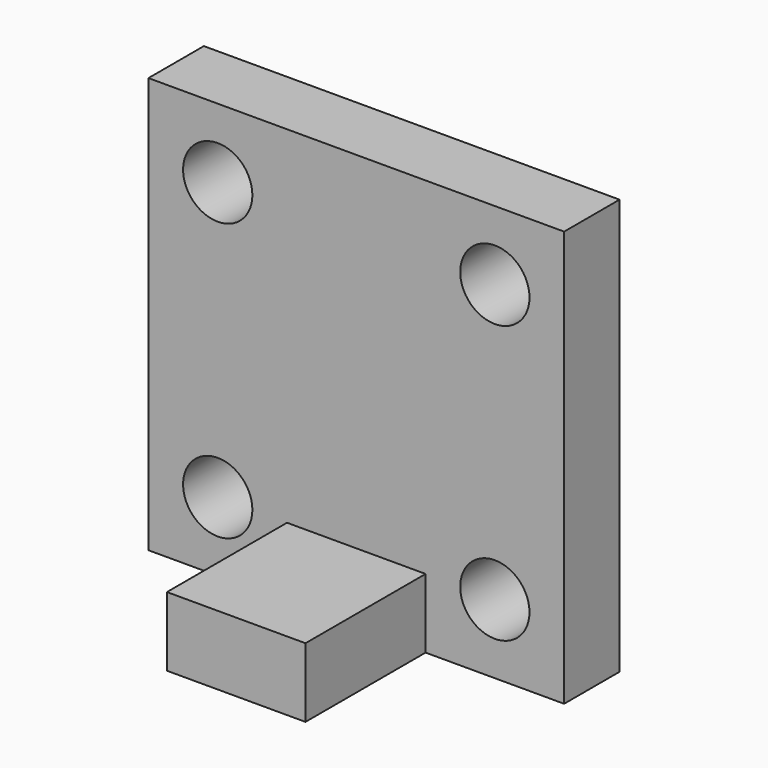
from build123d import *

# Parameters (mm, degrees)
F0_W     = 18
F0_H     = 18
F0_R     = 1.5
F1_DEPTH = 3
F2_W     = 6
F2_H     = 3
F3_DEPTH = 6.5


with BuildPart() as f1:
    # F0 (on Front) → F1 (new body)
    with BuildSketch(Plane.XZ):
        Rectangle(F0_W, F0_H)
        with Locations((-6, -6)):
            Circle(F0_R, mode=Mode.SUBTRACT)
        with Locations((6, -6)):
            Circle(F0_R, mode=Mode.SUBTRACT)
        with Locations((-6, 6)):
            Circle(F0_R, mode=Mode.SUBTRACT)
        with Locations((6, 6)):
            Circle(F0_R, mode=Mode.SUBTRACT)
    extrude(amount=F1_DEPTH)

    # F2 (on face) → F3 (join)
    with BuildSketch(Plane.XZ.offset(3)):
        with Locations((0, -7.5)):
            Rectangle(F2_W, F2_H)
    extrude(amount=F3_DEPTH)


solid = f1.part
